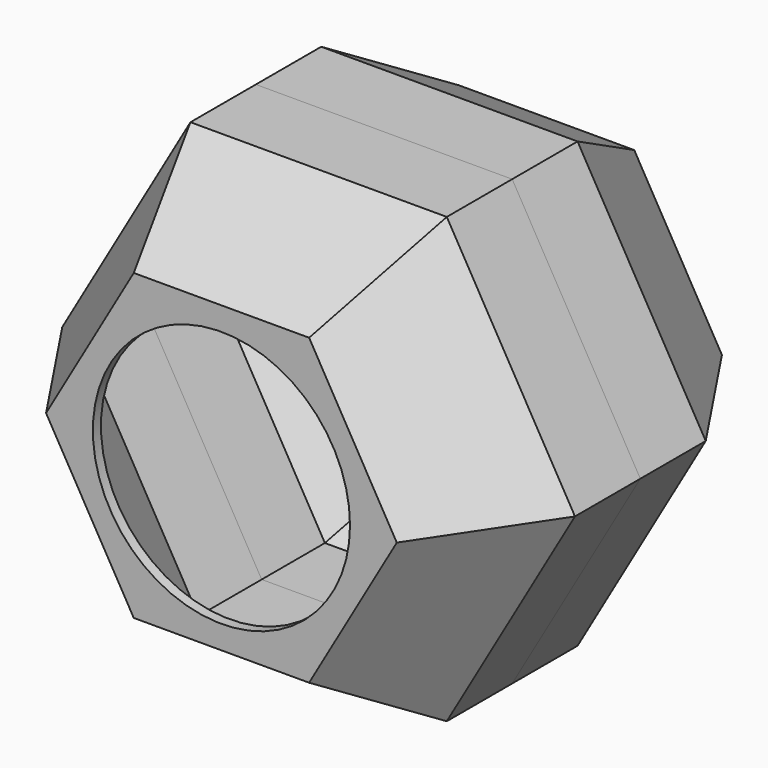
from build123d import *

# Parameters (mm, degrees)
F1_DEPTH = 120
F1_TAPER = -30
F2_DEPTH = 80.72
F4_T     = -10
F5_T     = -10
F6_R     = 127
F7_DEPTH = 401.4410001


with BuildPart() as f1:
    # F0 (on Front) → F1 (new body)
    with BuildSketch(Plane.XZ):
        Polygon((86.6025403784, 150), (-86.6025403784, 150), (-173.2050807569, 0), (-86.6025403784, -150), (86.6025403784, -150), (173.2050807569, 0), align=None)
    extrude(amount=-F1_DEPTH, taper=F1_TAPER)

    # F2 (add): a face of the model
    f2_faces = [f1.faces().sort_by_distance(p)[0] for p in [
        (0, 120, 0),
    ]]
    extrude(f2_faces, amount=F2_DEPTH)


with BuildPart() as f3_1:
    # F3: instance of F1
    add(f1.part.mirror(Plane(origin=(0, 200.72, 0), x_dir=(-1, 0, 0), z_dir=(0, 1, 0))))

    # F5
    f5_openings = [f3_1.faces().sort_by_distance(p)[0] for p in [
        (0, 200.72, 0),
    ]]
    offset(amount=F5_T, openings=f5_openings, kind=Kind.INTERSECTION)


with BuildPart() as f1_1:
    add(f1.part)

    # F4
    f4_openings = [f1_1.faces().sort_by_distance(p)[0] for p in [
        (0, 200.72, 0),
    ]]
    offset(amount=F4_T, openings=f4_openings, kind=Kind.INTERSECTION)


with BuildPart() as f7_tool:
    # F6 (on face) → F7 (new body, through all)
    with BuildSketch(Plane.XZ):
        Circle(F6_R)
    extrude(amount=-F7_DEPTH)


with BuildPart() as f1_2:
    add(f1_1.part)

    # F7: cut by f7_tool
    add(f7_tool.part, mode=Mode.SUBTRACT)


with BuildPart() as f3_1_1:
    add(f3_1.part)

    # F7: cut by f7_tool
    add(f7_tool.part, mode=Mode.SUBTRACT)


solid = Compound([f1_2.part, f3_1_1.part])
